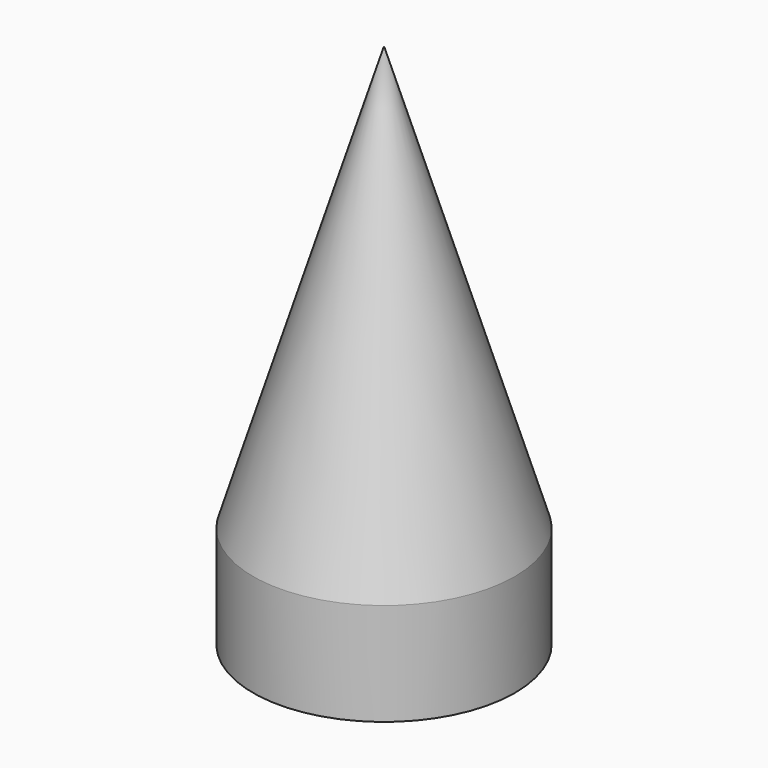
from build123d import *

# Parameters (mm, degrees)
F1_FACE_R = 32.4485
F2_DEPTH  = 25.4


with BuildPart() as f1:
    # F0 (on Front) → F1 (revolve)
    with BuildSketch(Plane.XZ):
        Polygon((28.957026, -51.716006), (-3.491474, 53.436643), (-3.491474, -51.716006), align=None)
    revolve(axis=Axis((-3.491474, 0, 0.860319), (0, 0, -1)))

    # F1_face (on face) → F2 (join)
    with BuildSketch(Plane(origin=(-3.491474, 0, -51.716006), x_dir=(1, 0, 0), z_dir=(0, 0, -1))):
        Circle(F1_FACE_R)
    extrude(amount=F2_DEPTH)


solid = f1.part
